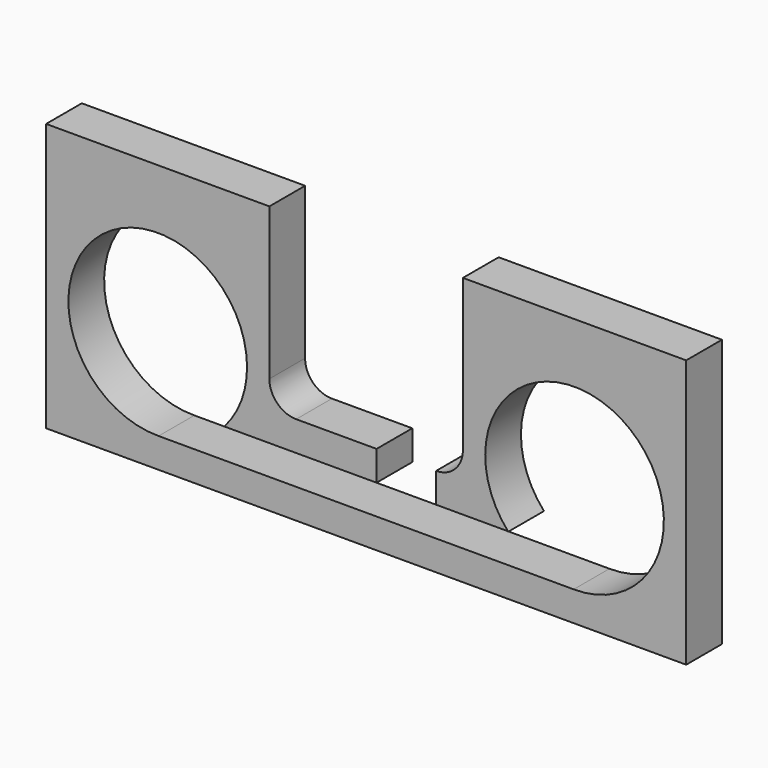
from build123d import *

# Parameters (mm, degrees)
F0_W     = 273.05
F0_H     = 114.3
F1_DEPTH = 19.05
F2_R     = 38.1
F3_DEPTH = 25.4
F5_DEPTH = 45.72
F7_DEPTH = 25.4


with BuildPart() as f1:
    # F0 (on Front) → F1 (new body)
    with BuildSketch(Plane.XZ):
        with Locations((136.525, 57.15)):
            Rectangle(F0_W, F0_H)
    extrude(amount=F1_DEPTH)

    # F2 (on face) → F3 (cut)
    with BuildSketch(Plane.XZ.offset(19.05)):
        with Locations((47.625, 50.8)):
            Circle(F2_R)
        with Locations((225.425, 50.8)):
            Circle(F2_R)
    extrude(amount=-F3_DEPTH, mode=Mode.SUBTRACT)

    # F4 (on face) → F5 (cut)
    with BuildSketch(Plane.XZ.offset(19.05)):
        with BuildLine():
            Line((177.8, 114.3), (95.25, 114.3))
            Line((95.25, 114.3), (95.25, 49.53))
            ThreePointArc((95.25, 49.53), (98.597769, 41.447769), (106.68, 38.1))
            Line((106.68, 38.1), (166.37, 38.1))
            ThreePointArc((166.37, 38.1), (174.452231, 41.447769), (177.8, 49.53))
            Line((177.8, 49.53), (177.8, 114.3))
        make_face()
    extrude(amount=-F5_DEPTH, mode=Mode.SUBTRACT)

    # F6 (on face) → F7 (cut)
    with BuildSketch(Plane.XZ.offset(19.05)):
        Polygon((166.37, 25.401815), (166.37, 38.1), (140.97, 38.1), (140.97, 25.401815), (59.75961, 25.401815), (47.996878, 12.701815), (225.796878, 12.701815), (196.839669, 25.401815), align=None)
    extrude(amount=-F7_DEPTH, mode=Mode.SUBTRACT)


solid = f1.part
